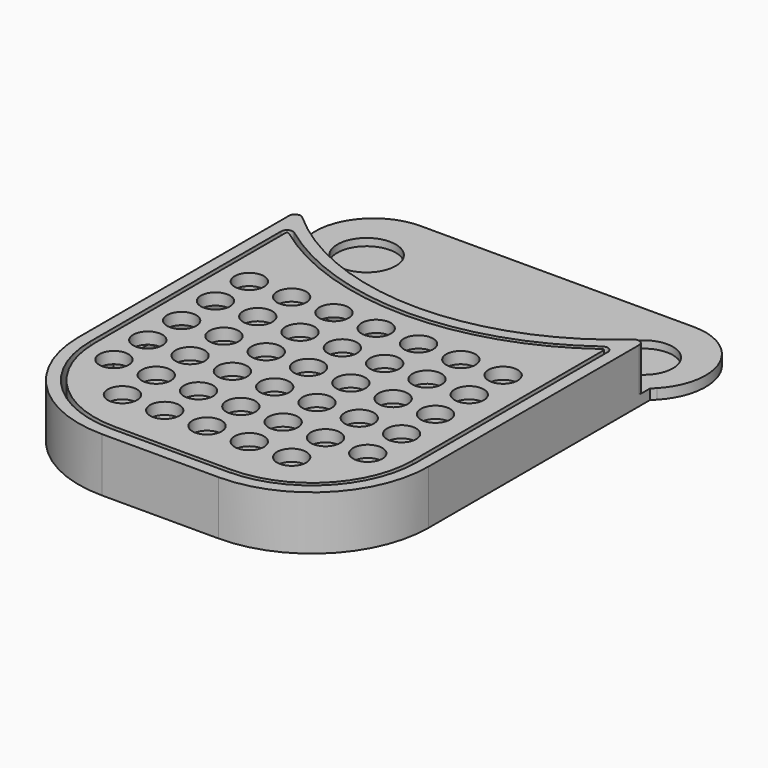
from build123d import *

# Parameters (mm, degrees)
F0_R      = 10
F1_DEPTH  = 3.5
F2_R      = 12.5
F3_DEPTH  = 1
F5_DEPTH  = 15
F7_DEPTH  = 9
F9_DEPTH  = 4
F10_R     = 5
F11_DEPTH = 25


with BuildPart() as f1:
    # F0 (on Top) → F1 (new body)
    with BuildSketch(Plane.XY):
        with BuildLine():
            ThreePointArc((-46.9041575982, -25), (-65.3014818184, -37.1553545945), (-61.33620609, -58.8461538462))
            ThreePointArc((-61.33620609, -58.8461538462), (-60.6719240247, -59.5308124851), (-60, -60.207972894))
            Line((-60, -60.207972894), (-60, -155))
            ThreePointArc((-60, -155), (-48.2842712475, -183.2842712475), (-20, -195))
            Line((-20, -195), (20, -195))
            ThreePointArc((20, -195), (48.2842712475, -183.2842712475), (60, -155))
            Line((60, -155), (60, -60.207972894))
            ThreePointArc((60, -60.207972894), (60.6719240247, -59.5308124851), (61.33620609, -58.8461538462))
            ThreePointArc((61.33620609, -58.8461538462), (65.3014818184, -37.1553545945), (46.9041575982, -25))
            Line((46.9041575982, -25), (-46.9041575982, -25))
        make_face()
        with Locations((-47.5, -47.2519840853)):
            Circle(F0_R, mode=Mode.SUBTRACT)
        with Locations((47.5, -47.2519840853)):
            Circle(F0_R, mode=Mode.SUBTRACT)
    extrude(amount=F1_DEPTH)

    # F2 (on face) → F3 (join)
    with BuildSketch(Plane(origin=(0, 0, 0), x_dir=(1, 0, 0), z_dir=(0, 0, -1))):
        with Locations((47.5, 47.2519840853)):
            Circle(F2_R)
        with Locations((-47.5, 47.2519840853)):
            Circle(F2_R)
    extrude(amount=-F3_DEPTH)

    # F4 (on face) → F5 (join)
    with BuildSketch(Plane.XY.offset(3.5)):
        with BuildLine():
            ThreePointArc((20, -195), (48.2842712475, -183.2842712475), (60, -155))
            Line((60, -155), (60, -64.8459713475))
            ThreePointArc((60, -64.8459713475), (58.8164965809, -63.0202294891), (56.6666666667, -63.3552593625))
            ThreePointArc((56.6666666667, -63.3552593625), (0, -85), (-56.6666666667, -63.3552593625))
            ThreePointArc((-56.6666666667, -63.3552593625), (-58.8164965809, -63.0202294891), (-60, -64.8459713475))
            Line((-60, -64.8459713475), (-60, -155))
            ThreePointArc((-60, -155), (-48.2842712475, -183.2842712475), (-20, -195))
            Line((-20, -195), (20, -195))
        make_face()
        with BuildLine():
            Line((-56, -155), (-56, -73.2461603089))
            ThreePointArc((-56, -73.2461603089), (-54.9017687138, -71.4609955583), (-52.8131868132, -71.6363545878))
            ThreePointArc((-52.8131868132, -71.6363545878), (0, -89), (52.8131868132, -71.6363545878))
            ThreePointArc((52.8131868132, -71.6363545878), (54.9017687138, -71.4609955583), (56, -73.2461603089))
            Line((56, -73.2461603089), (56, -155))
            ThreePointArc((56, -155), (45.4558441227, -180.4558441227), (20, -191))
            Line((20, -191), (-20, -191))
            ThreePointArc((-20, -191), (-45.4558441227, -180.4558441227), (-56, -155))
        make_face(mode=Mode.SUBTRACT)
    extrude(amount=F5_DEPTH)

    # F6 (on face) → F7 (join)
    with BuildSketch(Plane.XY.offset(3.5)):
        with BuildLine():
            Line((-53, -81), (-56, -81))
            Line((-56, -81), (-56, -93))
            Line((-56, -93), (-53, -93))
            ThreePointArc((-53, -93), (-50.8786796564, -92.1213203436), (-50, -90))
            Line((-50, -90), (-50, -84))
            ThreePointArc((-50, -84), (-50.8786796564, -81.8786796564), (-53, -81))
        make_face()
        with BuildLine():
            Line((-53, -133), (-56, -133))
            Line((-56, -133), (-56, -145))
            Line((-56, -145), (-53, -145))
            ThreePointArc((-53, -145), (-50.8786796564, -144.1213203436), (-50, -142))
            Line((-50, -142), (-50, -136))
            ThreePointArc((-50, -136), (-50.8786796564, -133.8786796564), (-53, -133))
        make_face()
        with BuildLine():
            Line((-6, -191), (0, -191))
            Line((0, -191), (6, -191))
            Line((6, -191), (6, -188))
            ThreePointArc((6, -188), (5.1213203436, -185.8786796564), (3, -185))
            Line((3, -185), (0, -185))
            Line((0, -185), (-3, -185))
            ThreePointArc((-3, -185), (-5.1213203436, -185.8786796564), (-6, -188))
            Line((-6, -188), (-6, -191))
        make_face()
        with BuildLine():
            ThreePointArc((50, -142), (50.8786796564, -144.1213203436), (53, -145))
            Line((53, -145), (56, -145))
            Line((56, -145), (56, -133))
            Line((56, -133), (53, -133))
            ThreePointArc((53, -133), (50.8786796564, -133.8786796564), (50, -136))
            Line((50, -136), (50, -142))
        make_face()
        with BuildLine():
            ThreePointArc((53, -81), (50.8786796564, -81.8786796564), (50, -84))
            Line((50, -84), (50, -90))
            ThreePointArc((50, -90), (50.8786796564, -92.1213203436), (53, -93))
            Line((53, -93), (56, -93))
            Line((56, -93), (56, -81))
            Line((56, -81), (53, -81))
        make_face()
    extrude(amount=F7_DEPTH)


with BuildPart() as f9:
    # F8 (on face) → F9 (new body)
    with BuildSketch(Plane.XY.offset(18.5)):
        with BuildLine():
            ThreePointArc((53.7032967033, -72.8437088787), (0, -90.5), (-53.7032967033, -72.8437088787))
            ThreePointArc((-53.7032967033, -72.8437088787), (-54.2254421784, -72.7998691213), (-54.5, -73.2461603089))
            Line((-54.5, -73.2461603089), (-54.5, -140.3030615433))
            Line((-54.5, -140.3030615433), (-54.5, -155))
            ThreePointArc((-54.5, -155), (-44.3951839509, -179.3951839509), (-20, -189.5))
            Line((-20, -189.5), (20, -189.5))
            ThreePointArc((20, -189.5), (44.3951839509, -179.3951839509), (54.5, -155))
            Line((54.5, -155), (54.5, -73.2461603089))
            ThreePointArc((54.5, -73.2461603089), (54.2254421784, -72.7998691213), (53.7032967033, -72.8437088787))
        make_face()
    extrude(amount=-F9_DEPTH)

    # F10 (on face) → F11 (cut)
    with BuildSketch(Plane.XY.offset(18.5)):
        with Locations((-44.5, -101.2461603089)):
            Circle(F10_R)
        with Locations((-44.5, -115.7461603089)):
            Circle(F10_R)
        with Locations((-44.5, -130.2461603089)):
            Circle(F10_R)
        with Locations((-44.5, -144.7461603089)):
            Circle(F10_R)
        with Locations((-44.5, -159.2461603089)):
            Circle(F10_R)
        with Locations((-30, -101.2461603089)):
            Circle(F10_R)
        with Locations((-30, -115.7461603089)):
            Circle(F10_R)
        with Locations((-30, -130.2461603089)):
            Circle(F10_R)
        with Locations((-30, -144.7461603089)):
            Circle(F10_R)
        with Locations((-30, -159.2461603089)):
            Circle(F10_R)
        with Locations((-15.5, -101.2461603089)):
            Circle(F10_R)
        with Locations((-15.5, -115.7461603089)):
            Circle(F10_R)
        with Locations((-15.5, -130.2461603089)):
            Circle(F10_R)
        with Locations((-15.5, -144.7461603089)):
            Circle(F10_R)
        with Locations((-15.5, -159.2461603089)):
            Circle(F10_R)
        with Locations((-1, -101.2461603089)):
            Circle(F10_R)
        with Locations((-1, -115.7461603089)):
            Circle(F10_R)
        with Locations((-1, -130.2461603089)):
            Circle(F10_R)
        with Locations((-1, -144.7461603089)):
            Circle(F10_R)
        with Locations((-1, -159.2461603089)):
            Circle(F10_R)
        with Locations((13.5, -101.2461603089)):
            Circle(F10_R)
        with Locations((13.5, -115.7461603089)):
            Circle(F10_R)
        with Locations((13.5, -130.2461603089)):
            Circle(F10_R)
        with Locations((13.5, -144.7461603089)):
            Circle(F10_R)
        with Locations((13.5, -159.2461603089)):
            Circle(F10_R)
        with Locations((28, -101.2461603089)):
            Circle(F10_R)
        with Locations((28, -115.7461603089)):
            Circle(F10_R)
        with Locations((28, -130.2461603089)):
            Circle(F10_R)
        with Locations((28, -144.7461603089)):
            Circle(F10_R)
        with Locations((28, -159.2461603089)):
            Circle(F10_R)
        with Locations((42.5, -101.2461603089)):
            Circle(F10_R)
        with Locations((42.5, -115.7461603089)):
            Circle(F10_R)
        with Locations((42.5, -130.2461603089)):
            Circle(F10_R)
        with Locations((42.5, -144.7461603089)):
            Circle(F10_R)
        with Locations((42.5, -159.2461603089)):
            Circle(F10_R)
        with Locations((-30, -173.7461603089)):
            Circle(F10_R)
        with Locations((-15.5, -173.7461603089)):
            Circle(F10_R)
        with Locations((-1, -173.7461603089)):
            Circle(F10_R)
        with Locations((13.5, -173.7461603089)):
            Circle(F10_R)
        with Locations((28, -173.7461603089)):
            Circle(F10_R)
    extrude(amount=-F11_DEPTH, mode=Mode.SUBTRACT)


solid = Compound([f1.part, f9.part])
